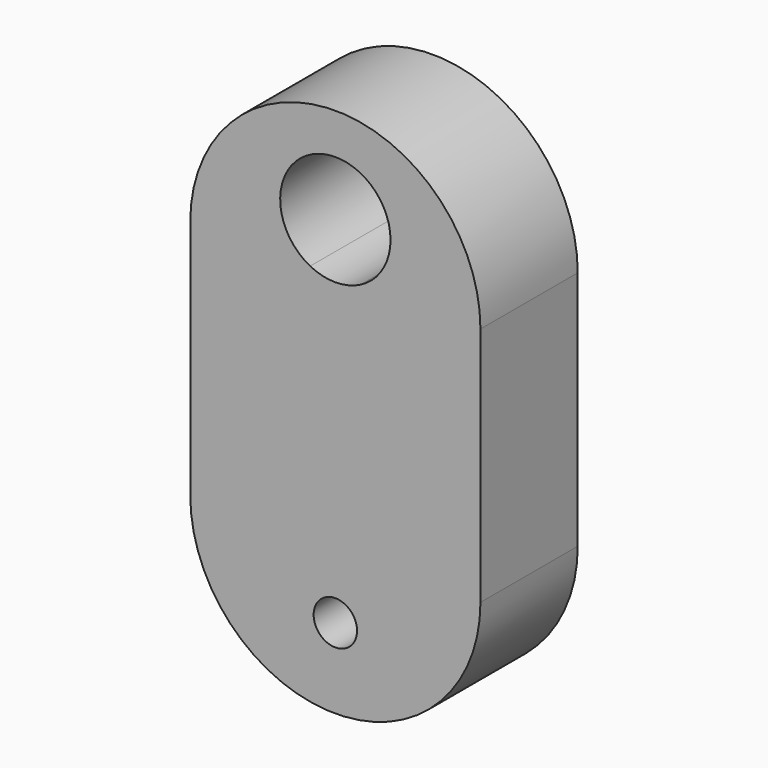
from build123d import *

# Parameters (mm, degrees)
F0_R     = 3.175
F1_DEPTH = 17.78


with BuildPart() as f1:
    # F0 (on Front) → F1 (new body)
    with BuildSketch(Plane.XZ):
        with BuildLine():
            ThreePointArc((-19.21438, 3.037397), (-40.42338, 24.246397), (-61.63238, 3.037397))
            Line((-61.63238, 3.037397), (-44.10419, 3.037397))
            ThreePointArc((-44.10419, 3.037397), (-44.62768, 17.094759), (-32.35888, 10.212897))
            ThreePointArc((-32.35888, 10.212897), (-33.541518, 6.008598), (-36.742571, 3.037397))
            Line((-36.742571, 3.037397), (-19.21438, 3.037397))
        make_face()
        with BuildLine():
            Line((-44.10419, 3.037397), (-61.63238, 3.037397))
            Line((-61.63238, 3.037397), (-61.63238, -32.141603))
            Line((-61.63238, -32.141603), (-19.21438, -32.141603))
            Line((-19.21438, -32.141603), (-19.21438, 3.037397))
            Line((-19.21438, 3.037397), (-36.742571, 3.037397))
            ThreePointArc((-36.742571, 3.037397), (-40.42338, 2.148397), (-44.10419, 3.037397))
        make_face()
        with BuildLine():
            Line((-19.21438, -32.141603), (-61.63238, -32.141603))
            ThreePointArc((-61.63238, -32.141603), (-40.42338, -53.350603), (-19.21438, -32.141603))
        make_face()
        with Locations((-40.42338, -41.666603)):
            Circle(F0_R, mode=Mode.SUBTRACT)
    extrude(amount=F1_DEPTH)


solid = f1.part
